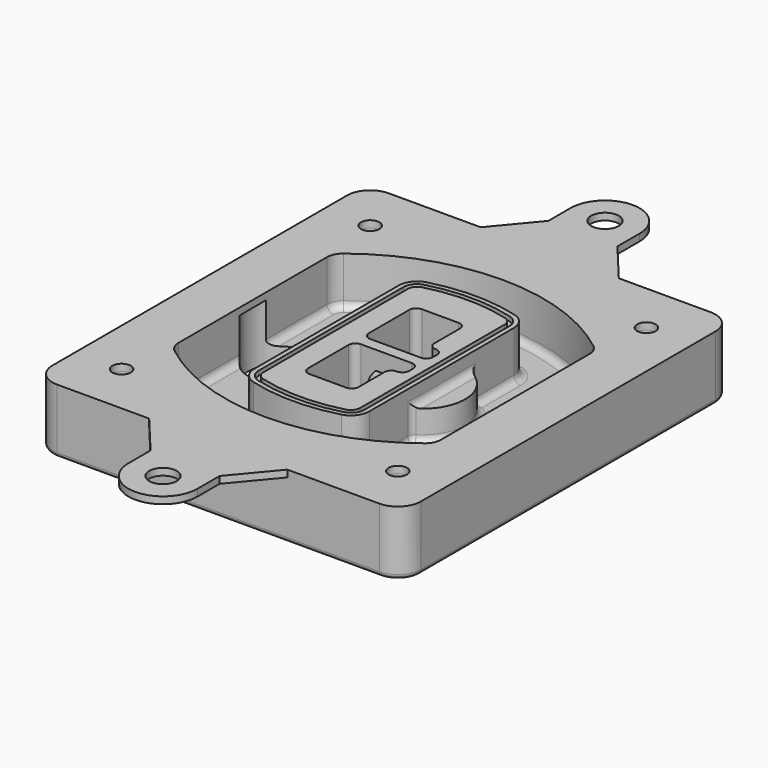
from build123d import *

# Parameters (mm, degrees)
F0_R      = 4
F1_DEPTH  = 25
F2_DEPTH  = 3
F3_DEPTH  = 18
F5_DEPTH  = 21
F6_DEPTH  = 2
F8_DEPTH  = 20
F9_DEPTH  = 16
F10_DEPTH = 25
F7_R      = 6
F7_R_2    = 4
F11_DEPTH = 6
F13_DEPTH = 9
F14_R     = 3
F15_R     = 2
F16_R     = 6
F16_R_2   = 4
F17_DEPTH = 3


with BuildPart() as f1:
    # F0 (on Top) → F1 (new body)
    with BuildSketch(Plane.XY):
        with BuildLine():
            ThreePointArc((-80, -80), (-77.0710678119, -87.0710678119), (-70, -90))
            Line((-70, -90), (70, -90))
            ThreePointArc((70, -90), (77.0710678119, -87.0710678119), (80, -80))
            Line((80, -80), (80, 80))
            ThreePointArc((80, 80), (77.0710678119, 87.0710678119), (70, 90))
            Line((70, 90), (-70, 90))
            ThreePointArc((-70, 90), (-77.0710678119, 87.0710678119), (-80, 80))
            Line((-80, 80), (-80, -80))
        make_face()
        with Locations((-60, -67.5)):
            Circle(F0_R, mode=Mode.SUBTRACT)
        with Locations((60, -67.5)):
            Circle(F0_R, mode=Mode.SUBTRACT)
        with Locations((-60, 67.5)):
            Circle(F0_R, mode=Mode.SUBTRACT)
        with BuildLine():
            ThreePointArc((-64, 40.2934422872), (-62.5820384798, 46.4328484224), (-58.6153846154, 51.3286200352))
            ThreePointArc((-58.6153846154, 51.3286200352), (0, 71.5), (58.6153846154, 51.3286200352))
            ThreePointArc((58.6153846154, 51.3286200352), (62.5820384798, 46.4328484224), (64, 40.2934422872))
            Line((64, 40.2934422872), (64, -40.2934422872))
            ThreePointArc((64, -40.2934422872), (62.5820384798, -46.4328484224), (58.6153846154, -51.3286200352))
            ThreePointArc((58.6153846154, -51.3286200352), (0, -71.5), (-58.6153846154, -51.3286200352))
            ThreePointArc((-58.6153846154, -51.3286200352), (-62.5820384798, -46.4328484224), (-64, -40.2934422872))
            Line((-64, -40.2934422872), (-64, 40.2934422872))
        make_face(mode=Mode.SUBTRACT)
        with Locations((60, 67.5)):
            Circle(F0_R, mode=Mode.SUBTRACT)
        with BuildLine():
            ThreePointArc((58.6153846154, 51.3286200352), (0, 71.5), (-58.6153846154, 51.3286200352))
            ThreePointArc((-58.6153846154, 51.3286200352), (-62.5820384798, 46.4328484224), (-64, 40.2934422872))
            Line((-64, 40.2934422872), (-64, -40.2934422872))
            ThreePointArc((-64, -40.2934422872), (-62.5820384798, -46.4328484224), (-58.6153846154, -51.3286200352))
            ThreePointArc((-58.6153846154, -51.3286200352), (0, -71.5), (58.6153846154, -51.3286200352))
            ThreePointArc((58.6153846154, -51.3286200352), (62.5820384798, -46.4328484224), (64, -40.2934422872))
            Line((64, -40.2934422872), (64, 40.2934422872))
            ThreePointArc((64, 40.2934422872), (62.5820384798, 46.4328484224), (58.6153846154, 51.3286200352))
        make_face()
        with BuildLine():
            Line((-60, -40.2934422872), (-60, 40.2934422872))
            ThreePointArc((-60, 40.2934422872), (-58.9871703427, 44.6787323838), (-56.1538461538, 48.1757121072))
            ThreePointArc((-56.1538461538, 48.1757121072), (0, 67.5), (56.1538461538, 48.1757121072))
            ThreePointArc((56.1538461538, 48.1757121072), (58.9871703427, 44.6787323838), (60, 40.2934422872))
            Line((60, 40.2934422872), (60, -40.2934422872))
            ThreePointArc((60, -40.2934422872), (58.9871703427, -44.6787323838), (56.1538461538, -48.1757121072))
            ThreePointArc((56.1538461538, -48.1757121072), (0, -67.5), (-56.1538461538, -48.1757121072))
            ThreePointArc((-56.1538461538, -48.1757121072), (-58.9871703427, -44.6787323838), (-60, -40.2934422872))
        make_face(mode=Mode.SUBTRACT)
        with BuildLine():
            ThreePointArc((-56.1538461538, 48.1757121072), (-58.9871703427, 44.6787323838), (-60, 40.2934422872))
            Line((-60, 40.2934422872), (-60, -40.2934422872))
            ThreePointArc((-60, -40.2934422872), (-58.9871703427, -44.6787323838), (-56.1538461538, -48.1757121072))
            ThreePointArc((-56.1538461538, -48.1757121072), (0, -67.5), (56.1538461538, -48.1757121072))
            ThreePointArc((56.1538461538, -48.1757121072), (58.9871703427, -44.6787323838), (60, -40.2934422872))
            Line((60, -40.2934422872), (60, 40.2934422872))
            ThreePointArc((60, 40.2934422872), (58.9871703427, 44.6787323838), (56.1538461538, 48.1757121072))
            ThreePointArc((56.1538461538, 48.1757121072), (0, 67.5), (-56.1538461538, 48.1757121072))
        make_face()
        with BuildLine():
            ThreePointArc((54.3076923077, 45.8110311612), (56.2910192399, 43.3631453548), (57, 40.2934422872))
            Line((57, 40.2934422872), (57, -40.2934422872))
            ThreePointArc((57, -40.2934422872), (56.2910192399, -43.3631453548), (54.3076923077, -45.8110311612))
            ThreePointArc((54.3076923077, -45.8110311612), (0, -64.5), (-54.3076923077, -45.8110311612))
            ThreePointArc((-54.3076923077, -45.8110311612), (-56.2910192399, -43.3631453548), (-57, -40.2934422872))
            Line((-57, -40.2934422872), (-57, 40.2934422872))
            ThreePointArc((-57, 40.2934422872), (-56.2910192399, 43.3631453548), (-54.3076923077, 45.8110311612))
            ThreePointArc((-54.3076923077, 45.8110311612), (0, 64.5), (54.3076923077, 45.8110311612))
        make_face(mode=Mode.SUBTRACT)
        with BuildLine():
            Line((57, -40.2934422872), (57, 40.2934422872))
            ThreePointArc((57, 40.2934422872), (56.2910192399, 43.3631453548), (54.3076923077, 45.8110311612))
            ThreePointArc((54.3076923077, 45.8110311612), (0, 64.5), (-54.3076923077, 45.8110311612))
            ThreePointArc((-54.3076923077, 45.8110311612), (-56.2910192399, 43.3631453548), (-57, 40.2934422872))
            Line((-57, 40.2934422872), (-57, -40.2934422872))
            ThreePointArc((-57, -40.2934422872), (-56.2910192399, -43.3631453548), (-54.3076923077, -45.8110311612))
            ThreePointArc((-54.3076923077, -45.8110311612), (0, -64.5), (54.3076923077, -45.8110311612))
            ThreePointArc((54.3076923077, -45.8110311612), (56.2910192399, -43.3631453548), (57, -40.2934422872))
        make_face()
    extrude(amount=-F1_DEPTH)

    # F0 (on Top) → F2 (join)
    with BuildSketch(Plane.XY):
        with BuildLine():
            ThreePointArc((-56.1538461538, 48.1757121072), (-58.9871703427, 44.6787323838), (-60, 40.2934422872))
            Line((-60, 40.2934422872), (-60, -40.2934422872))
            ThreePointArc((-60, -40.2934422872), (-58.9871703427, -44.6787323838), (-56.1538461538, -48.1757121072))
            ThreePointArc((-56.1538461538, -48.1757121072), (0, -67.5), (56.1538461538, -48.1757121072))
            ThreePointArc((56.1538461538, -48.1757121072), (58.9871703427, -44.6787323838), (60, -40.2934422872))
            Line((60, -40.2934422872), (60, 40.2934422872))
            ThreePointArc((60, 40.2934422872), (58.9871703427, 44.6787323838), (56.1538461538, 48.1757121072))
            ThreePointArc((56.1538461538, 48.1757121072), (0, 67.5), (-56.1538461538, 48.1757121072))
        make_face()
        with BuildLine():
            ThreePointArc((54.3076923077, 45.8110311612), (56.2910192399, 43.3631453548), (57, 40.2934422872))
            Line((57, 40.2934422872), (57, -40.2934422872))
            ThreePointArc((57, -40.2934422872), (56.2910192399, -43.3631453548), (54.3076923077, -45.8110311612))
            ThreePointArc((54.3076923077, -45.8110311612), (0, -64.5), (-54.3076923077, -45.8110311612))
            ThreePointArc((-54.3076923077, -45.8110311612), (-56.2910192399, -43.3631453548), (-57, -40.2934422872))
            Line((-57, -40.2934422872), (-57, 40.2934422872))
            ThreePointArc((-57, 40.2934422872), (-56.2910192399, 43.3631453548), (-54.3076923077, 45.8110311612))
            ThreePointArc((-54.3076923077, 45.8110311612), (0, 64.5), (54.3076923077, 45.8110311612))
        make_face(mode=Mode.SUBTRACT)
    extrude(amount=F2_DEPTH)

    # F0 (on Top) → F3 (cut)
    with BuildSketch(Plane.XY):
        with BuildLine():
            Line((57, -40.2934422872), (57, 40.2934422872))
            ThreePointArc((57, 40.2934422872), (56.2910192399, 43.3631453548), (54.3076923077, 45.8110311612))
            ThreePointArc((54.3076923077, 45.8110311612), (0, 64.5), (-54.3076923077, 45.8110311612))
            ThreePointArc((-54.3076923077, 45.8110311612), (-56.2910192399, 43.3631453548), (-57, 40.2934422872))
            Line((-57, 40.2934422872), (-57, -40.2934422872))
            ThreePointArc((-57, -40.2934422872), (-56.2910192399, -43.3631453548), (-54.3076923077, -45.8110311612))
            ThreePointArc((-54.3076923077, -45.8110311612), (0, -64.5), (54.3076923077, -45.8110311612))
            ThreePointArc((54.3076923077, -45.8110311612), (56.2910192399, -43.3631453548), (57, -40.2934422872))
        make_face()
    extrude(amount=-F3_DEPTH, mode=Mode.SUBTRACT)

    # F4 (on face) → F5 (join, through all)
    with BuildSketch(Plane.XY.offset(3)):
        with BuildLine():
            ThreePointArc((-25, -39.2465276821), (-23.3511545998, -44.1109737193), (-19.0842911877, -46.9702398883))
            ThreePointArc((-19.0842911877, -46.9702398883), (0, -49.5), (19.0842911877, -46.9702398883))
            ThreePointArc((19.0842911877, -46.9702398883), (23.3511545998, -44.1109737193), (25, -39.2465276821))
            Line((25, -39.2465276821), (25, 39.2465276821))
            ThreePointArc((25, 39.2465276821), (23.3511545998, 44.1109737193), (19.0842911877, 46.9702398883))
            ThreePointArc((19.0842911877, 46.9702398883), (0, 49.5), (-19.0842911877, 46.9702398883))
            ThreePointArc((-19.0842911877, 46.9702398883), (-23.3511545998, 44.1109737193), (-25, 39.2465276821))
            Line((-25, 39.2465276821), (-25, -39.2465276821))
        make_face()
        with BuildLine():
            ThreePointArc((18.5632183908, 45.0393118368), (21.7633659499, 42.89486221), (23, 39.2465276821))
            Line((23, 39.2465276821), (23, -39.2465276821))
            ThreePointArc((23, -39.2465276821), (21.7633659499, -42.89486221), (18.5632183908, -45.0393118368))
            ThreePointArc((18.5632183908, -45.0393118368), (0, -47.5), (-18.5632183908, -45.0393118368))
            ThreePointArc((-18.5632183908, -45.0393118368), (-21.7633659499, -42.89486221), (-23, -39.2465276821))
            Line((-23, -39.2465276821), (-23, 39.2465276821))
            ThreePointArc((-23, 39.2465276821), (-21.7633659499, 42.89486221), (-18.5632183908, 45.0393118368))
            ThreePointArc((-18.5632183908, 45.0393118368), (0, 47.5), (18.5632183908, 45.0393118368))
        make_face(mode=Mode.SUBTRACT)
        with BuildLine():
            Line((23, -39.2465276821), (23, 39.2465276821))
            ThreePointArc((23, 39.2465276821), (21.7633659499, 42.89486221), (18.5632183908, 45.0393118368))
            ThreePointArc((18.5632183908, 45.0393118368), (0, 47.5), (-18.5632183908, 45.0393118368))
            ThreePointArc((-18.5632183908, 45.0393118368), (-21.7633659499, 42.89486221), (-23, 39.2465276821))
            Line((-23, 39.2465276821), (-23, -39.2465276821))
            ThreePointArc((-23, -39.2465276821), (-21.7633659499, -42.89486221), (-18.5632183908, -45.0393118368))
            ThreePointArc((-18.5632183908, -45.0393118368), (0, -47.5), (18.5632183908, -45.0393118368))
            ThreePointArc((18.5632183908, -45.0393118368), (21.7633659499, -42.89486221), (23, -39.2465276821))
        make_face()
        with BuildLine():
            ThreePointArc((18.0421455939, 43.1083837852), (20.1755772999, 41.6787507007), (21, 39.2465276821))
            Line((21, 39.2465276821), (21, -39.2465276821))
            ThreePointArc((21, -39.2465276821), (20.1755772999, -41.6787507007), (18.0421455939, -43.1083837852))
            ThreePointArc((18.0421455939, -43.1083837852), (0, -45.5), (-18.0421455939, -43.1083837852))
            ThreePointArc((-18.0421455939, -43.1083837852), (-20.1755772999, -41.6787507007), (-21, -39.2465276821))
            Line((-21, -39.2465276821), (-21, 39.2465276821))
            ThreePointArc((-21, 39.2465276821), (-20.1755772999, 41.6787507007), (-18.0421455939, 43.1083837852))
            ThreePointArc((-18.0421455939, 43.1083837852), (0, 45.5), (18.0421455939, 43.1083837852))
        make_face(mode=Mode.SUBTRACT)
        with BuildLine():
            Line((21, -39.2465276821), (21, 39.2465276821))
            ThreePointArc((21, 39.2465276821), (20.1755772999, 41.6787507007), (18.0421455939, 43.1083837852))
            ThreePointArc((18.0421455939, 43.1083837852), (0, 45.5), (-18.0421455939, 43.1083837852))
            ThreePointArc((-18.0421455939, 43.1083837852), (-20.1755772999, 41.6787507007), (-21, 39.2465276821))
            Line((-21, 39.2465276821), (-21, -39.2465276821))
            ThreePointArc((-21, -39.2465276821), (-20.1755772999, -41.6787507007), (-18.0421455939, -43.1083837852))
            ThreePointArc((-18.0421455939, -43.1083837852), (0, -45.5), (18.0421455939, -43.1083837852))
            ThreePointArc((18.0421455939, -43.1083837852), (20.1755772999, -41.6787507007), (21, -39.2465276821))
        make_face()
        with BuildLine():
            Line((-8, -2.5), (14, -2.5))
            ThreePointArc((14, -2.5), (16.1213203436, -3.3786796564), (17, -5.5))
            Line((17, -5.5), (17, -7.5))
            ThreePointArc((17, -7.5), (16.1213203436, -9.6213203436), (14, -10.5))
            ThreePointArc((14, -10.5), (11.8786796564, -11.3786796564), (11, -13.5))
            Line((11, -13.5), (11, -27.5))
            ThreePointArc((11, -27.5), (10.1213203436, -29.6213203436), (8, -30.5))
            Line((8, -30.5), (-8, -30.5))
            ThreePointArc((-8, -30.5), (-10.1213203436, -29.6213203436), (-11, -27.5))
            Line((-11, -27.5), (-11, -5.5))
            ThreePointArc((-11, -5.5), (-10.1213203436, -3.3786796564), (-8, -2.5))
        make_face(mode=Mode.SUBTRACT)
        with BuildLine():
            ThreePointArc((-8, 2.5), (-10.1213203436, 3.3786796564), (-11, 5.5))
            Line((-11, 5.5), (-11, 27.5))
            ThreePointArc((-11, 27.5), (-10.1213203436, 29.6213203436), (-8, 30.5))
            Line((-8, 30.5), (8, 30.5))
            ThreePointArc((8, 30.5), (10.1213203436, 29.6213203436), (11, 27.5))
            Line((11, 27.5), (11, 13.5))
            ThreePointArc((11, 13.5), (11.8786796564, 11.3786796564), (14, 10.5))
            ThreePointArc((14, 10.5), (16.1213203436, 9.6213203436), (17, 7.5))
            Line((17, 7.5), (17, 5.5))
            ThreePointArc((17, 5.5), (16.1213203436, 3.3786796564), (14, 2.5))
            Line((14, 2.5), (-8, 2.5))
        make_face(mode=Mode.SUBTRACT)
    extrude(amount=-F5_DEPTH)

    # F4 (on face) → F6 (cut)
    with BuildSketch(Plane.XY.offset(3)):
        with BuildLine():
            Line((23, -39.2465276821), (23, 39.2465276821))
            ThreePointArc((23, 39.2465276821), (21.7633659499, 42.89486221), (18.5632183908, 45.0393118368))
            ThreePointArc((18.5632183908, 45.0393118368), (0, 47.5), (-18.5632183908, 45.0393118368))
            ThreePointArc((-18.5632183908, 45.0393118368), (-21.7633659499, 42.89486221), (-23, 39.2465276821))
            Line((-23, 39.2465276821), (-23, -39.2465276821))
            ThreePointArc((-23, -39.2465276821), (-21.7633659499, -42.89486221), (-18.5632183908, -45.0393118368))
            ThreePointArc((-18.5632183908, -45.0393118368), (0, -47.5), (18.5632183908, -45.0393118368))
            ThreePointArc((18.5632183908, -45.0393118368), (21.7633659499, -42.89486221), (23, -39.2465276821))
        make_face()
        with BuildLine():
            ThreePointArc((18.0421455939, 43.1083837852), (20.1755772999, 41.6787507007), (21, 39.2465276821))
            Line((21, 39.2465276821), (21, -39.2465276821))
            ThreePointArc((21, -39.2465276821), (20.1755772999, -41.6787507007), (18.0421455939, -43.1083837852))
            ThreePointArc((18.0421455939, -43.1083837852), (0, -45.5), (-18.0421455939, -43.1083837852))
            ThreePointArc((-18.0421455939, -43.1083837852), (-20.1755772999, -41.6787507007), (-21, -39.2465276821))
            Line((-21, -39.2465276821), (-21, 39.2465276821))
            ThreePointArc((-21, 39.2465276821), (-20.1755772999, 41.6787507007), (-18.0421455939, 43.1083837852))
            ThreePointArc((-18.0421455939, 43.1083837852), (0, 45.5), (18.0421455939, 43.1083837852))
        make_face(mode=Mode.SUBTRACT)
    extrude(amount=-F6_DEPTH, mode=Mode.SUBTRACT)

    # F7 (on face) → F8 (join)
    with BuildSketch(Plane(origin=(0, 0, -25), x_dir=(1, 0, 0), z_dir=(0, 0, -1))):
        with BuildLine():
            ThreePointArc((3.28842436, 0), (16.7567035675, 13.4682792075), (30.224982775, 0))
            Line((30.224982775, 0), (35.224982775, 0))
            ThreePointArc((35.224982775, 0), (16.7567035675, 18.4682792075), (-1.71157564, 0))
            Line((-1.71157564, 0), (3.28842436, 0))
        make_face()
        with BuildLine():
            Line((3.28842436, 0), (30.224982775, 0))
            ThreePointArc((30.224982775, 0), (16.7567035675, 13.4682792075), (3.28842436, 0))
        make_face()
        with BuildLine():
            ThreePointArc((3.28842436, 0), (16.7567035675, -13.4682792075), (30.224982775, 0))
            Line((30.224982775, 0), (3.28842436, 0))
        make_face()
        with BuildLine():
            Line((35.224982775, 0), (30.224982775, 0))
            ThreePointArc((30.224982775, 0), (16.7567035675, -13.4682792075), (3.28842436, 0))
            Line((3.28842436, 0), (-1.71157564, 0))
            ThreePointArc((-1.71157564, 0), (16.7567035675, -18.4682792075), (35.224982775, 0))
        make_face()
    extrude(amount=-F8_DEPTH)

    # F7 (on face) → F9 (cut)
    with BuildSketch(Plane(origin=(0, 0, -25), x_dir=(1, 0, 0), z_dir=(0, 0, -1))):
        with BuildLine():
            Line((3.28842436, 0), (30.224982775, 0))
            ThreePointArc((30.224982775, 0), (16.7567035675, 13.4682792075), (3.28842436, 0))
        make_face()
        with BuildLine():
            ThreePointArc((3.28842436, 0), (16.7567035675, -13.4682792075), (30.224982775, 0))
            Line((30.224982775, 0), (3.28842436, 0))
        make_face()
    extrude(amount=-F9_DEPTH, mode=Mode.SUBTRACT)

    # F7 (on face) → F10 (cut)
    with BuildSketch(Plane(origin=(0, 0, -25), x_dir=(1, 0, 0), z_dir=(0, 0, -1))):
        with BuildLine():
            Line((-59.0318229325, 0), (-32.0952645175, 0))
            ThreePointArc((-32.0952645175, 0), (-45.563543725, 13.4682792075), (-59.0318229325, 0))
        make_face()
        with BuildLine():
            ThreePointArc((-59.0318229325, 0), (-45.563543725, -13.4682792075), (-32.0952645175, 0))
            Line((-32.0952645175, 0), (-59.0318229325, 0))
        make_face()
    extrude(amount=-F10_DEPTH, mode=Mode.SUBTRACT)

    # F7 (on face) → F11 (cut)
    with BuildSketch(Plane(origin=(0, 0, -25), x_dir=(1, 0, 0), z_dir=(0, 0, -1))):
        with Locations((60, -67.5)):
            Circle(F7_R)
        with Locations((60, -67.5)):
            Circle(F7_R_2, mode=Mode.SUBTRACT)
        with Locations((60, -67.5)):
            Circle(F7_R)
        with Locations((60, -67.5)):
            Circle(F7_R_2, mode=Mode.SUBTRACT)
        with Locations((-60, -67.5)):
            Circle(F7_R)
        with Locations((-60, -67.5)):
            Circle(F7_R_2, mode=Mode.SUBTRACT)
        with Locations((-60, -67.5)):
            Circle(F7_R)
        with Locations((-60, -67.5)):
            Circle(F7_R_2, mode=Mode.SUBTRACT)
        with Locations((-60, 67.5)):
            Circle(F7_R)
        with Locations((-60, 67.5)):
            Circle(F7_R_2, mode=Mode.SUBTRACT)
        with Locations((-60, 67.5)):
            Circle(F7_R)
        with Locations((-60, 67.5)):
            Circle(F7_R_2, mode=Mode.SUBTRACT)
        with Locations((60, 67.5)):
            Circle(F7_R)
        with Locations((60, 67.5)):
            Circle(F7_R_2, mode=Mode.SUBTRACT)
        with Locations((60, 67.5)):
            Circle(F7_R)
        with Locations((60, 67.5)):
            Circle(F7_R_2, mode=Mode.SUBTRACT)
    extrude(amount=-F11_DEPTH, mode=Mode.SUBTRACT)

    # F12 (on face) → F13 (cut, through all)
    with BuildSketch(Plane(origin=(0, 0, -9), x_dir=(1, 0, 0), z_dir=(0, 0, -1))):
        with BuildLine():
            Line((11, 13.5), (11, 17.5481537753))
            ThreePointArc((11, 17.5481537753), (2.5696536419, 11.8239143813), (-1.5415842455, 2.5))
            Line((-1.5415842455, 2.5), (3.5224848595, 2.5))
            ThreePointArc((3.5224848595, 2.5), (6.1857188154, 8.3455872281), (11.2536447004, 12.2927168648))
            ThreePointArc((11.2536447004, 12.2927168648), (11.0640958889, 12.8831798879), (11, 13.5))
        make_face()
        with BuildLine():
            ThreePointArc((11.2536447004, -12.2927168648), (6.1857188154, -8.3455872281), (3.5224848595, -2.5))
            Line((3.5224848595, -2.5), (-1.5415842455, -2.5))
            ThreePointArc((-1.5415842455, -2.5), (2.5696536419, -11.8239143813), (11, -17.5481537753))
            Line((11, -17.5481537753), (11, -13.5))
            ThreePointArc((11, -13.5), (11.0640958889, -12.8831798879), (11.2536447004, -12.2927168648))
        make_face()
        with BuildLine():
            ThreePointArc((11.2536447004, 12.2927168648), (6.1857188154, 8.3455872281), (3.5224848595, 2.5))
            Line((3.5224848595, 2.5), (14, 2.5))
            ThreePointArc((14, 2.5), (16.1213203436, 3.3786796564), (17, 5.5))
            Line((17, 5.5), (17, 7.5))
            ThreePointArc((17, 7.5), (16.1213203436, 9.6213203436), (14, 10.5))
            ThreePointArc((14, 10.5), (12.3601599782, 10.9878446101), (11.2536447004, 12.2927168648))
        make_face()
        with BuildLine():
            Line((14, -2.5), (3.5224848595, -2.5))
            ThreePointArc((3.5224848595, -2.5), (6.1857188154, -8.3455872281), (11.2536447004, -12.2927168648))
            ThreePointArc((11.2536447004, -12.2927168648), (12.3601599782, -10.9878446101), (14, -10.5))
            ThreePointArc((14, -10.5), (16.1213203436, -9.6213203436), (17, -7.5))
            Line((17, -7.5), (17, -5.5))
            ThreePointArc((17, -5.5), (16.1213203436, -3.3786796564), (14, -2.5))
        make_face()
    extrude(amount=F13_DEPTH, mode=Mode.SUBTRACT)

    # F14
    f14_edges = [f1.edges().sort_by_distance(p)[0] for p in [
        (-57, -23.703476, -18),
        (-57, 23.703476, -18),
        (25, 0, -5),
        (25, 16.526506, -11.5),
        (25, -16.526506, -11.5),
        (25, -27.886517, -18),
        (35.224983, 0, -18),
    ]]
    fillet(f14_edges, radius=F14_R)

    # F15
    f15_edges = [f1.edges().sort_by_distance(p)[0] for p in [
        (0, -90, -25),
    ]]
    fillet(f15_edges, radius=F15_R)

    # F16 (on face) → F17 (join, through all)
    with BuildSketch(Plane.XY):
        with BuildLine():
            Line((15, -108), (30, -90))
            Line((30, -90), (-30, -90))
            Line((-30, -90), (-15, -108))
            Line((-15, -108), (-15, -120))
            ThreePointArc((-15, -120), (0, -135), (15, -120))
            Line((15, -120), (15, -108))
        make_face()
        with Locations((0, -120)):
            Circle(F16_R, mode=Mode.SUBTRACT)
        with BuildLine():
            Line((30, 90), (15, 108))
            Line((15, 108), (15, 120))
            ThreePointArc((15, 120), (0, 135), (-15, 120))
            Line((-15, 120), (-15, 108))
            Line((-15, 108), (-30, 90))
            Line((-30, 90), (30, 90))
        make_face()
        with Locations((0, 120)):
            Circle(F16_R, mode=Mode.SUBTRACT)
        with BuildLine():
            Line((70, 90), (30, 90))
            Line((30, 90), (-30, 90))
            Line((-30, 90), (-70, 90))
            ThreePointArc((-70, 90), (-77.0710678119, 87.0710678119), (-80, 80))
            Line((-80, 80), (-80, -80))
            ThreePointArc((-80, -80), (-77.0710678119, -87.0710678119), (-70, -90))
            Line((-70, -90), (-30, -90))
            Line((-30, -90), (30, -90))
            Line((30, -90), (70, -90))
            ThreePointArc((70, -90), (77.0710678119, -87.0710678119), (80, -80))
            Line((80, -80), (80, 80))
            ThreePointArc((80, 80), (77.0710678119, 87.0710678119), (70, 90))
        make_face()
        with Locations((-60, -67.5)):
            Circle(F16_R_2, mode=Mode.SUBTRACT)
        with Locations((60, -67.5)):
            Circle(F16_R_2, mode=Mode.SUBTRACT)
        with Locations((-60, 67.5)):
            Circle(F16_R_2, mode=Mode.SUBTRACT)
        with BuildLine():
            ThreePointArc((-60, 40.2934422872), (-58.9871703427, 44.6787323838), (-56.1538461538, 48.1757121072))
            ThreePointArc((-56.1538461538, 48.1757121072), (0, 67.5), (56.1538461538, 48.1757121072))
            ThreePointArc((56.1538461538, 48.1757121072), (58.9871703427, 44.6787323838), (60, 40.2934422872))
            Line((60, 40.2934422872), (60, -40.2934422872))
            ThreePointArc((60, -40.2934422872), (58.9871703427, -44.6787323838), (56.1538461538, -48.1757121072))
            ThreePointArc((56.1538461538, -48.1757121072), (0, -67.5), (-56.1538461538, -48.1757121072))
            ThreePointArc((-56.1538461538, -48.1757121072), (-58.9871703427, -44.6787323838), (-60, -40.2934422872))
            Line((-60, -40.2934422872), (-60, 40.2934422872))
        make_face(mode=Mode.SUBTRACT)
        with Locations((60, 67.5)):
            Circle(F16_R_2, mode=Mode.SUBTRACT)
    extrude(amount=F17_DEPTH)


solid = f1.part
